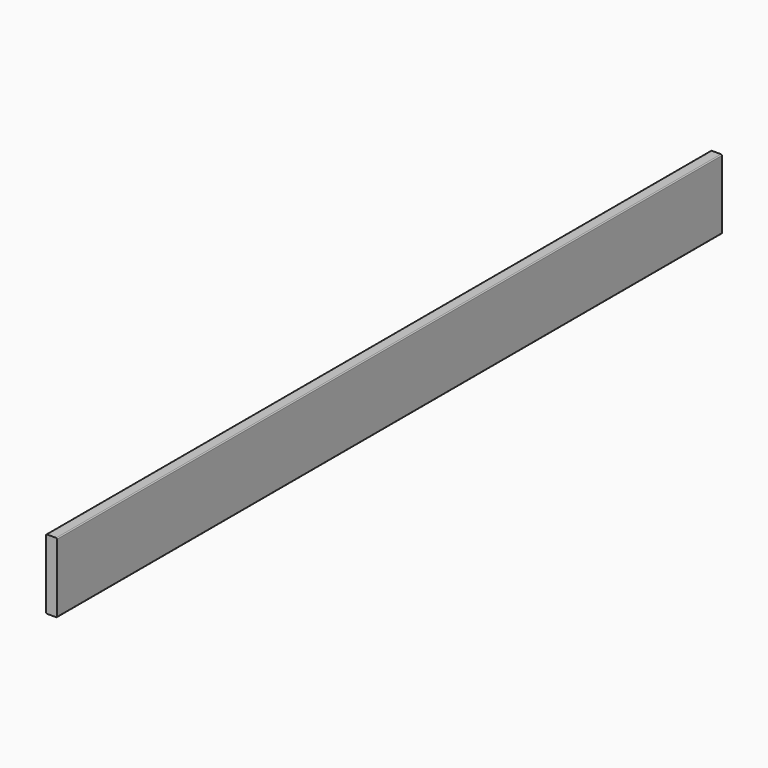
from build123d import *

# Parameters (mm, degrees)
F1_DEPTH = 1435.1


with BuildPart() as f1:
    # F0 (on Front) → F1 (new body, symmetric)
    with BuildSketch(Plane.XZ):
        with BuildLine():
            ThreePointArc((19.05, 117.475), (18.120064, 119.720064), (15.875, 120.65))
            Line((15.875, 120.65), (-15.875, 120.65))
            ThreePointArc((-15.875, 120.65), (-18.120064, 119.720064), (-19.05, 117.475))
            Line((-19.05, 117.475), (-19.05, -117.475))
            ThreePointArc((-19.05, -117.475), (-18.120064, -119.720064), (-15.875, -120.65))
            Line((-15.875, -120.65), (15.875, -120.65))
            ThreePointArc((15.875, -120.65), (18.120064, -119.720064), (19.05, -117.475))
            Line((19.05, -117.475), (19.05, 117.475))
        make_face()
    extrude(amount=F1_DEPTH, both=True)


solid = f1.part
